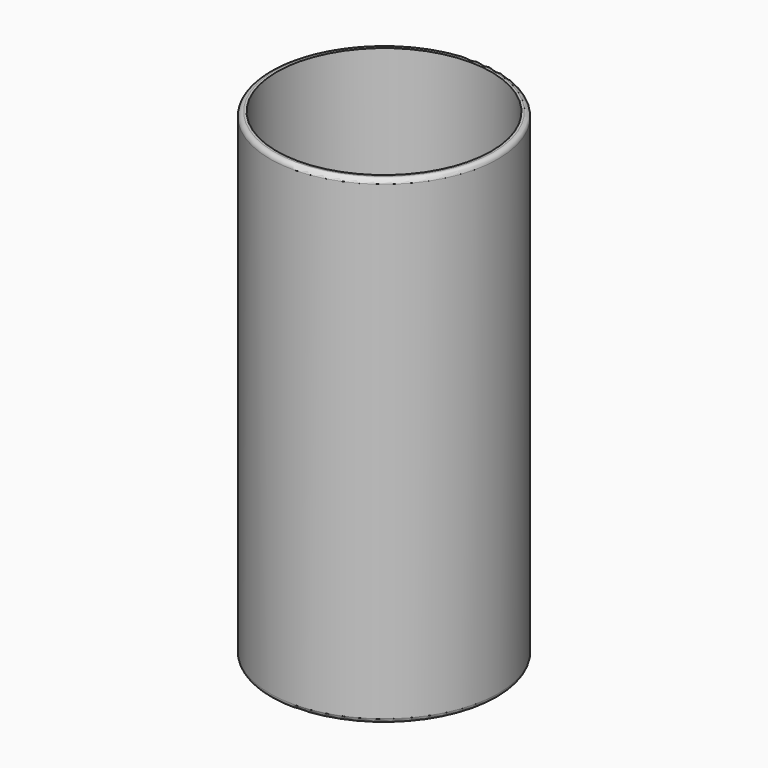
from build123d import *

# Parameters (mm, degrees)
F0_R     = 25
F0_R_2   = 23.5
F1_DEPTH = 100
F2_R     = 25
F3_DEPTH = 5
F4_R     = 1
F5_R     = 0.5
F6_DEPTH = 25


with BuildPart() as f1:
    # F0 (on Top) → F1 (new body)
    with BuildSketch(Plane.XY):
        Circle(F0_R)
        Circle(F0_R_2, mode=Mode.SUBTRACT)
    extrude(amount=F1_DEPTH)

    # F2 (on Top) → F3 (join)
    with BuildSketch(Plane.XY):
        Circle(F2_R)
    extrude(amount=-F3_DEPTH)

    # F4
    f4_edges = [f1.edges().sort_by_distance(p)[0] for p in [
        (-25, 0, -5),
        (-25, 0, 100),
    ]]
    fillet(f4_edges, radius=F4_R)

    # F5 (on Top) → F6 (cut)
    with BuildSketch(Plane.XY):
        Circle(F5_R)
    extrude(amount=-F6_DEPTH, mode=Mode.SUBTRACT)


solid = f1.part
